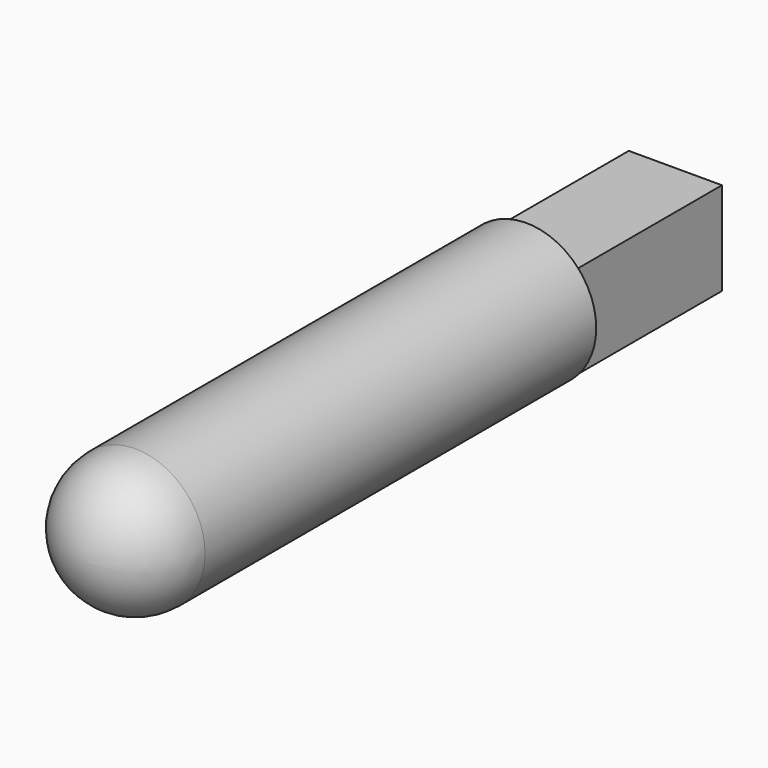
from build123d import *

# Parameters (mm, degrees)
F0_W     = 50.8
F0_H     = 50.8
F1_DEPTH = 101.6
F2_R     = 38.1
F3_DEPTH = 304.8
F4_R     = 38.1


with BuildPart() as f1:
    # F0 (on Front) → F1 (new body)
    with BuildSketch(Plane.XZ):
        Rectangle(F0_W, F0_H)
    extrude(amount=F1_DEPTH)

    # F2 (on face) → F3 (join)
    with BuildSketch(Plane.XZ.offset(101.6)):
        with Locations((0, 2.22227)):
            Circle(F2_R)
    extrude(amount=F3_DEPTH)

    # F4
    f4_edges = [f1.edges().sort_by_distance(p)[0] for p in [
        (-38.1, -406.4, 2.22227),
    ]]
    fillet(f4_edges, radius=F4_R)


solid = f1.part
